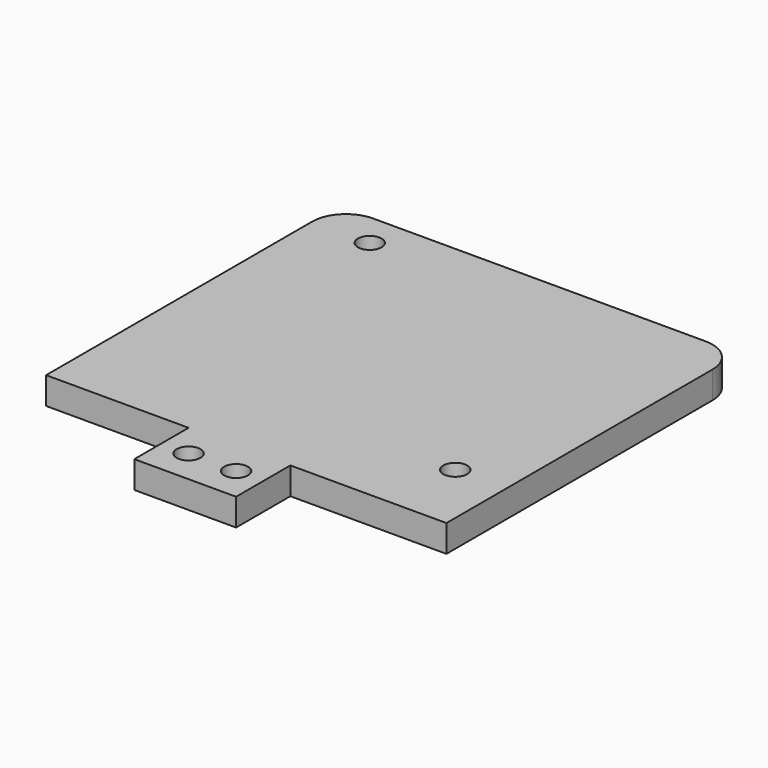
from build123d import *

# Parameters (mm, degrees)
F0_R     = 1.75
F1_DEPTH = 4
F2_R     = 5


with BuildPart() as f1:
    # F0 (on Top) → F1 (new body)
    with BuildSketch(Plane.XY):
        Polygon((23, 54), (-36, 54), (-36, 0), (-15, 0), (-15, -10), (0, -10), (0, 0), (23, 0), align=None)
        with Locations((-11, -5)):
            Circle(F0_R, mode=Mode.SUBTRACT)
        with Locations((-4, -5)):
            Circle(F0_R, mode=Mode.SUBTRACT)
        with Locations((15.5, 11)):
            Circle(F0_R, mode=Mode.SUBTRACT)
        with Locations((-27.5, 49)):
            Circle(F0_R, mode=Mode.SUBTRACT)
    extrude(amount=F1_DEPTH)

    # F2
    f2_edges = [f1.edges().sort_by_distance(p)[0] for p in [
        (23, 54, 2),
        (-36, 54, 2),
    ]]
    fillet(f2_edges, radius=F2_R)


solid = f1.part
